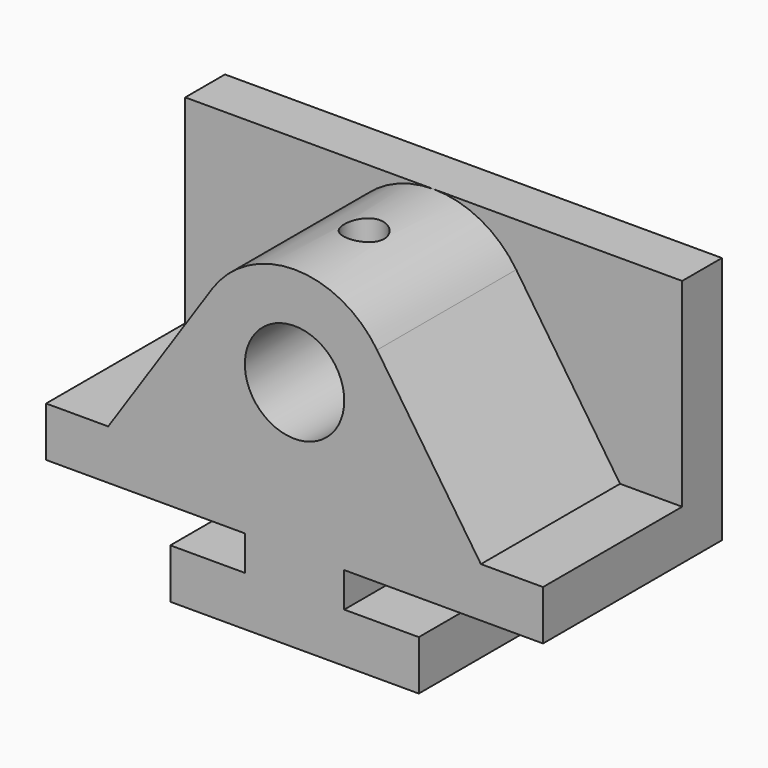
from build123d import *

# Parameters (mm, degrees)
F0_R     = 12.7
F1_DEPTH = 44.45
F2_W     = 12.7
F2_H     = 63.5
F3_DEPTH = 127
F5_R     = 5.08
F6_DEPTH = 25.4


with BuildPart() as f1:
    # F0 (on Front) → F1 (new body)
    with BuildSketch(Plane.XZ):
        with BuildLine():
            Line((-31.75, 0), (0, 0))
            Line((0, 0), (31.75, 0))
            Line((31.75, 0), (31.75, 12.7))
            Line((31.75, 12.7), (12.7, 12.7))
            Line((12.7, 12.7), (12.7, 21.59))
            Line((12.7, 21.59), (63.5, 21.59))
            Line((63.5, 21.59), (63.5, 34.29))
            Line((63.5, 34.29), (47.625, 34.29))
            Line((47.625, 34.29), (21.093426, 73.840173))
            ThreePointArc((21.093426, 73.840173), (0, 85.09), (-21.093426, 73.840173))
            Line((-21.093426, 73.840173), (-47.625, 34.29))
            Line((-47.625, 34.29), (-63.5, 34.29))
            Line((-63.5, 34.29), (-63.5, 21.59))
            Line((-63.5, 21.59), (-12.7, 21.59))
            Line((-12.7, 21.59), (-12.7, 12.7))
            Line((-12.7, 12.7), (-31.75, 12.7))
            Line((-31.75, 12.7), (-31.75, 0))
        make_face()
        with Locations((0, 59.69)):
            Circle(F0_R, mode=Mode.SUBTRACT)
    extrude(amount=F1_DEPTH)

    # F2 (on face) → F3 (join)
    with BuildSketch(Plane.YZ.offset(63.5)):
        with Locations((6.35, 53.34)):
            Rectangle(F2_W, F2_H)
    extrude(amount=-F3_DEPTH)

    # F5 (on offset) → F6 (cut)
    with BuildSketch(Plane.XY.offset(85.09)):
        with Locations((0, -22.225)):
            Circle(F5_R)
    extrude(amount=-F6_DEPTH, mode=Mode.SUBTRACT)


solid = f1.part
